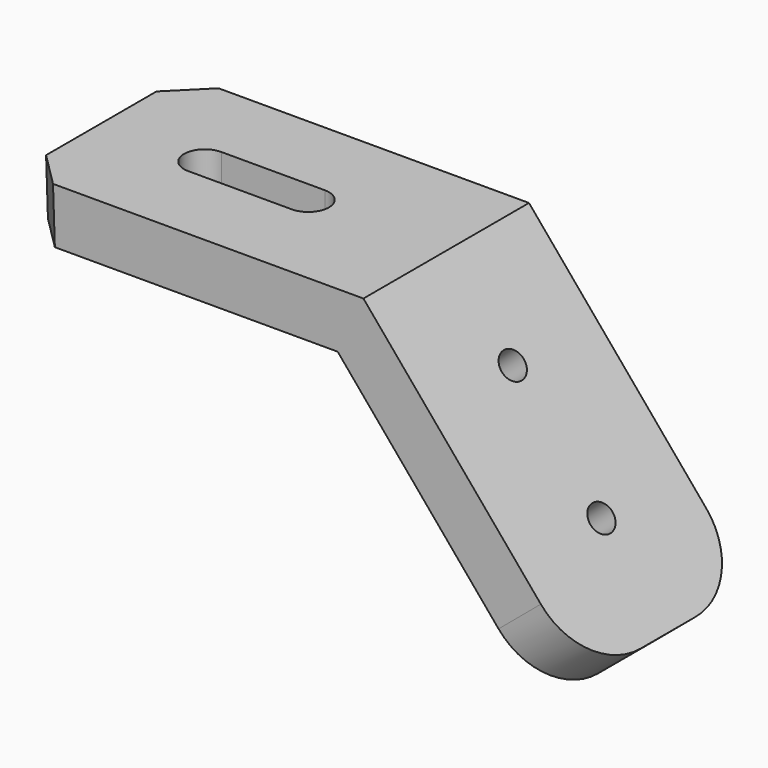
from build123d import *

# Parameters (mm, degrees)
F1_DEPTH = 15
F3_DEPTH = 8.001
F5_D     = 4
F6_R     = 10
F7_SIZE  = 5


with BuildPart() as f1:
    # F0 (on Front) → F1 (new body, symmetric)
    with BuildSketch(Plane.XZ):
        Polygon((0, 0), (46, 0), (75.7414862046, -35.4445230334), (81.8698417496, -30.3022221559), (49.7304612652, 8), (-0.2695387348, 8), align=None)
    extrude(amount=F1_DEPTH, both=True)

    # F2 (on Top) → F3 (cut, through all)
    with BuildSketch(Plane.XY):
        with BuildLine():
            ThreePointArc((14.7304612652, 3), (11.7304612652, 0), (14.7304612652, -3))
            Line((14.7304612652, -3), (29.7304612652, -3))
            ThreePointArc((29.7304612652, -3), (32.7304612652, 0), (29.7304612652, 3))
            Line((29.7304612652, 3), (14.7304612652, 3))
        make_face()
    extrude(amount=F3_DEPTH, mode=Mode.SUBTRACT)

    # F5 (through all)
    with Locations(Plane(origin=(33.1222636313, 0, 27.7928791968), x_dir=(0, 1, 0), z_dir=(0.7660444431, 0, 0.6427876097))):
        with Locations((0, -40.8377687803), (0, -60.8377687803)):
            Hole(F5_D / 2)

    # F6
    f6_edges = [f1.edges().sort_by_distance(p)[0] for p in [
        (78.805664, -15, -32.873373),
        (78.805664, 15, -32.873373),
    ]]
    fillet(f6_edges, radius=F6_R)

    # F7
    f7_edges = [f1.edges().sort_by_distance(p)[0] for p in [
        (-0.134769, 15, 4),
        (-0.134769, -15, 4),
    ]]
    chamfer(f7_edges, length=F7_SIZE)


solid = f1.part
